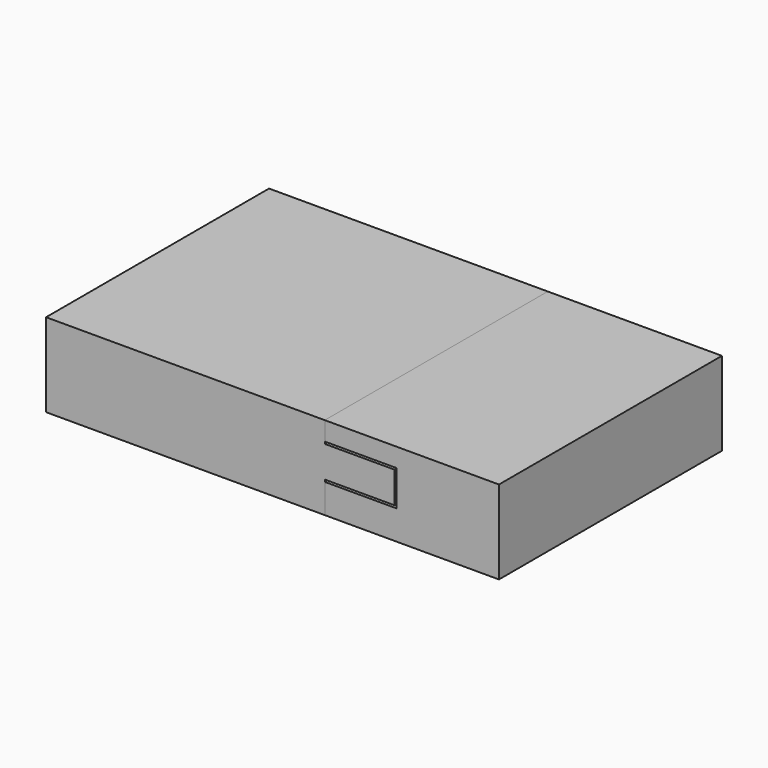
from build123d import *

# Parameters (mm, degrees)
F1_DEPTH = 6
F0_W     = 10
F0_H     = 8
F2_DEPTH = 1.5
F3_DEPTH = 3
F4_DEPTH = 4.5
F6_DEPTH = 25
F7_W     = 14.7
F7_H     = 7.8
F7_H_2   = 4.2
F8_DEPTH = 40


with BuildPart() as f1:
    # F0 (on Top) → F1 (new body, symmetric)
    with BuildSketch(Plane.XY):
        Polygon((0, 40), (-40, 40), (-40, 0), (0, 0), (0, 8), (0, 16), (0, 24), (0, 32), align=None)
    extrude(amount=F1_DEPTH, both=True)

    # F0 (on Top) → F2 (join, symmetric)
    with BuildSketch(Plane.XY):
        with Locations((5, 4)):
            Rectangle(F0_W, F0_H)
        with Locations((5, 20)):
            Rectangle(F0_W, F0_H)
        with Locations((5, 12)):
            Rectangle(F0_W, F0_H)
        with Locations((5, 28)):
            Rectangle(F0_W, F0_H)
        with Locations((5, 36)):
            Rectangle(F0_W, F0_H)
    extrude(amount=F2_DEPTH, both=True)

    # F0 (on Top) → F3 (join)
    with BuildSketch(Plane.XY):
        with Locations((5, 4)):
            Rectangle(F0_W, F0_H)
        with Locations((5, 20)):
            Rectangle(F0_W, F0_H)
        with Locations((5, 36)):
            Rectangle(F0_W, F0_H)
    extrude(amount=F3_DEPTH)

    # F4 (add): faces of the model
    f4_faces = [f1.faces().sort_by_distance(p)[0] for p in [
        (5, 12, 1.5),
        (5, 28, 1.5),
    ]]
    extrude(f4_faces, amount=-F4_DEPTH)


with BuildPart() as f6:
    # F5 (on face) → F6 (new body)
    with BuildSketch(Plane.YZ):
        Polygon((31.7, 3.3), (40, 3.3), (40, 6), (0, 6), (0, 3.3), (8.3, 3.3), (8.3, 1.8), (15.7, 1.8), (15.7, 3.3), (24.3, 3.3), (24.3, 1.8), (31.7, 1.8), align=None)
    extrude(amount=F6_DEPTH)



with BuildPart() as f6b:
    # F5 (on face) → F6, piece 2 (new body)
    with BuildSketch(Plane.YZ):
        Polygon((40, -6), (40, -1.8), (32.3, -1.8), (32.3, -3.3), (23.7, -3.3), (23.7, -1.8), (16.3, -1.8), (16.3, -3.3), (7.7, -3.3), (7.7, -1.8), (0, -1.8), (0, -6), align=None)
    extrude(amount=F6_DEPTH)


with BuildPart() as f6_1:
    add(f6.part)

    add(f6b.part)  # F8 merges F6b
    # F7 (on face) → F8 (join, through all)
    with BuildSketch(Plane.XZ):
        with Locations((17.65, 2.1)):
            Rectangle(F7_W, F7_H)
        with Locations((17.65, -3.9)):
            Rectangle(F7_W, F7_H_2)
    extrude(amount=-F8_DEPTH)


solid = Compound([f1.part, f6_1.part])
